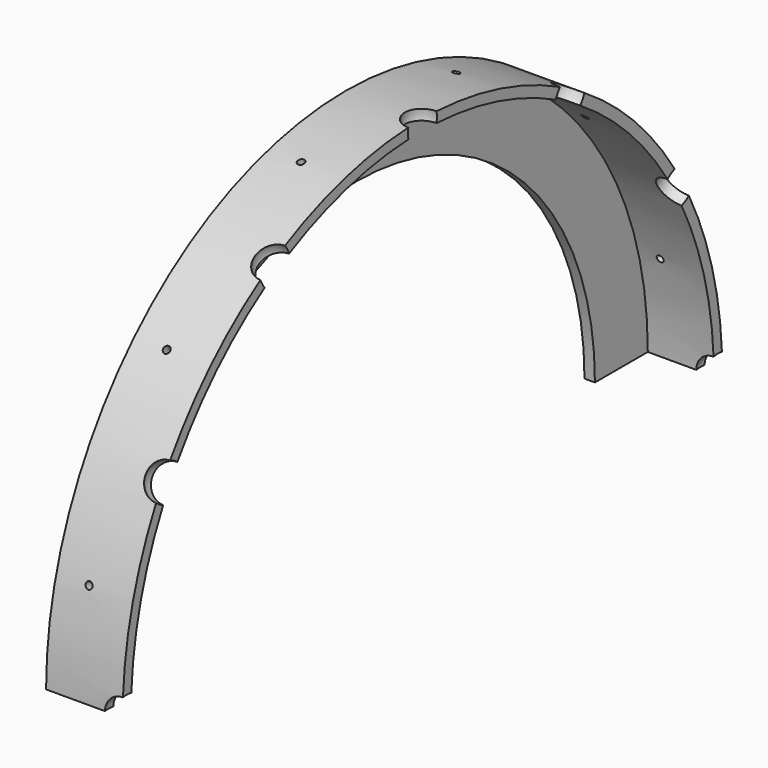
from build123d import *

# Parameters (mm, degrees)
F1_ANGLE  = 180
F24_W     = 1
F24_H     = 8
F26_W     = 1
F26_H     = 8
F28_W     = 1
F28_H     = 8
F30_W     = 1
F30_H     = 8
F32_W     = 1
F32_H     = 8
F34_W     = 1
F34_H     = 8
F37_ANGLE = 180


with BuildPart() as f1:
    # F0 (on Top) → F1 (revolve)
    with BuildSketch(Plane.XY):
        Polygon((-6.9271570891, 85.73), (-6.9271570891, 104.73), (9.0728429109, 104.73), (10.0728429109, 104.73), (12.0728429109, 104.73), (12.0728429109, 107.73), (-9.9271570891, 107.73), (-9.9271570891, 85.73), align=None)
    revolve(axis=Axis((-2.8000006437, 0, 0), (1, 0, 0)), revolution_arc=F1_ANGLE)

    # F4 (on face) → F5 (revolve, cut)
    with BuildSketch(Plane(origin=(0, 0, 0), x_dir=(1, 0, 0), z_dir=(0, 0.5, 0.8660254038))):
        with BuildLine():
            Line((12.0728429109, -98.4443590894), (12.0728429109, -113.4318396543))
            ThreePointArc((12.0728429109, -113.4318396543), (17.2721543208, -105.9380993719), (12.0728429109, -98.4443590894))
        make_face()
    revolve(axis=Axis((12.0728429109, -91.7450852847, 52.9690496859), (0, 0.8660254038, -0.5)), mode=Mode.SUBTRACT)

    # F7 (on line) → F8 (revolve, cut)
    with BuildSketch(Plane(origin=(0, 0, 0), x_dir=(-1, 0, 0), z_dir=(0, 0.8660254038, 0.5))):
        with BuildLine():
            Line((-12.0904128999, 113.7578382334), (-12.0904128999, 98.7703576684))
            ThreePointArc((-12.0904128999, 98.7703576684), (-6.89110149, 106.2640979509), (-12.0904128999, 113.7578382334))
        make_face()
    revolve(axis=Axis((12.0904128999, -53.1320489754, 92.0274083357), (0, -0.5, 0.8660254038)), mode=Mode.SUBTRACT)

    # F10 (on line) → F11 (revolve, cut)
    with BuildSketch(Plane(origin=(0, 0, 0), x_dir=(-1, 0, 0), z_dir=(0, 1, 0))):
        with BuildLine():
            Line((-12.0728425682, 113.65205489), (-12.0728425682, 98.6645743251))
            ThreePointArc((-12.0728425682, 98.6645743251), (-6.8735311583, 106.1583146076), (-12.0728425682, 113.65205489))
        make_face()
    revolve(axis=Axis((12.0728425682, 0, 106.1583146076), (0, 0, 1)), mode=Mode.SUBTRACT)

    # F13 (on line) → F14 (revolve, cut)
    with BuildSketch(Plane(origin=(0, 0, 0), x_dir=(-1, 0, 0), z_dir=(0, 0.8660254038, -0.5))):
        with BuildLine():
            Line((-12.0728425682, 113.5986789306), (-12.0728425682, 98.6111983657))
            ThreePointArc((-12.0728425682, 98.6111983657), (-6.8735311583, 106.1049386482), (-12.0728425682, 113.5986789306))
        make_face()
    revolve(axis=Axis((12.0728425682, 53.0524693241, 91.8895723363), (0, 0.5, 0.8660254038)), mode=Mode.SUBTRACT)

    # F16 (on line) → F17 (revolve, cut)
    with BuildSketch(Plane(origin=(0, 0, 0), x_dir=(1, 0, 0), z_dir=(0, -0.5, 0.8660254038))):
        with BuildLine():
            Line((12.0728425682, 113.6506369075), (12.0728425682, 98.6631563425))
            ThreePointArc((12.0728425682, 98.6631563425), (17.2721539781, 106.156896625), (12.0728425682, 113.6506369075))
        make_face()
    revolve(axis=Axis((12.0728425682, 91.9345692642, 53.0784483125), (0, 0.8660254038, 0.5)), mode=Mode.SUBTRACT)

    # F24 (on line) → F25 (revolve, cut)
    with BuildSketch(Plane(origin=(0, 0, 0), x_dir=(1, 0, 0), z_dir=(0, -0.2588190451, -0.9659258263))):
        with Locations((-1.000000095, 106.325245738)):
            Rectangle(F24_W, F24_H)
    revolve(axis=Axis((-0.500000095, -102.7023008449, 27.5189985722), (0, 0.9659258263, -0.2588190451)), mode=Mode.SUBTRACT)

    # F26 (on face) → F27 (revolve, cut)
    with BuildSketch(Plane(origin=(0, 0, 0), x_dir=(1, 0, 0), z_dir=(0, -0.7071067812, -0.7071067812))):
        with Locations((-1.000000013, 107.5976186395)):
            Rectangle(F26_W, F26_H)
    revolve(axis=Axis((-0.500000013, -76.0830057795, 76.0830057795), (0, 0.7071067812, -0.7071067812)), mode=Mode.SUBTRACT)

    # F28 (on line) → F29 (revolve, cut)
    with BuildSketch(Plane(origin=(0, 0, 0), x_dir=(-1, 0, 0), z_dir=(0, 0.9659258263, 0.2588190451))):
        with Locations((1, 107.6880686879)):
            Rectangle(F28_W, F28_H)
    revolve(axis=Axis((-0.5, -27.8717231067, 104.0186867288), (0, 0.2588190451, -0.9659258263)), mode=Mode.SUBTRACT)

    # F30 (on line) → F31 (revolve, cut)
    with BuildSketch(Plane(origin=(0, 0, 0), x_dir=(-1, 0, 0), z_dir=(0, 0.9659258263, -0.2588190451))):
        with Locations((1, 108.038760066)):
            Rectangle(F30_W, F30_H)
    revolve(axis=Axis((-0.5, 27.9624887144, 104.357428588), (0, -0.2588190451, -0.9659258263)), mode=Mode.SUBTRACT)

    # F32 (on face) → F33 (revolve, cut)
    with BuildSketch(Plane(origin=(0, 0, 0), x_dir=(1, 0, 0), z_dir=(0, -0.7071067812, 0.7071067812))):
        with Locations((-1, 108.0043979883)):
            Rectangle(F32_W, F32_H)
    revolve(axis=Axis((-0.5, 76.3706422155, 76.3706422155), (0, -0.7071067812, -0.7071067812)), mode=Mode.SUBTRACT)

    # F34 (on line) → F35 (revolve, cut)
    with BuildSketch(Plane(origin=(0, 0, 0), x_dir=(1, 0, 0), z_dir=(0, -0.2588190451, 0.9659258263))):
        with Locations((-1, 106.2417321801)):
            Rectangle(F34_W, F34_H)
    revolve(axis=Axis((-0.5, 102.6216329425, 27.4973836729), (0, -0.9659258263, -0.2588190451)), mode=Mode.SUBTRACT)

    # F36 (on Top) → F37 (revolve, cut)
    with BuildSketch(Plane.XY):
        with BuildLine():
            Line((12.0728429109, 113.73), (12.0728429109, 98.742519435))
            ThreePointArc((12.0728429109, 98.742519435), (17.2721543208, 106.2362597175), (12.0728429109, 113.73))
        make_face()
        with BuildLine():
            ThreePointArc((12.0728429109, -113.73), (17.2721543208, -106.2362597175), (12.0728429109, -98.742519435))
            Line((12.0728429109, -98.742519435), (12.0728429109, -113.73))
        make_face()
    revolve(axis=Axis((12.0728429109, 106.2362597175, 0), (0, -1, 0)), revolution_arc=F37_ANGLE, mode=Mode.SUBTRACT)


solid = f1.part
